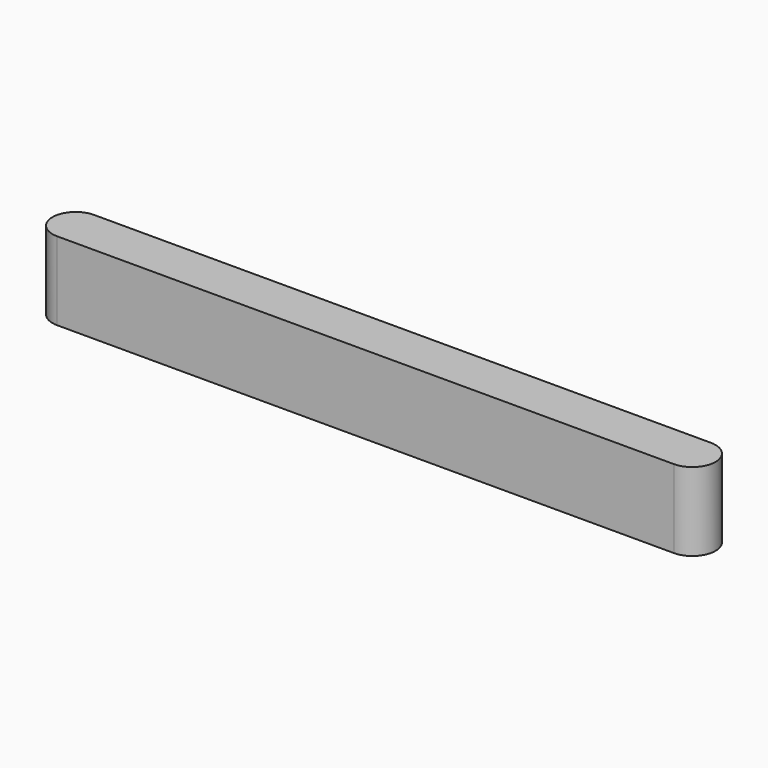
from build123d import *

# Parameters (mm, degrees)
F1_DEPTH = 25.4


with BuildPart() as f1:
    # F0 (on Top) → F1 (new body)
    with BuildSketch(Plane.XY):
        with BuildLine():
            ThreePointArc((100, 7.5), (92.5, 0), (100, -7.5))
            Line((100, -7.5), (100, 7.5))
        make_face()
        with BuildLine():
            Line((-100, -7.5), (100, -7.5))
            ThreePointArc((100, -7.5), (92.5, 0), (100, 7.5))
            Line((100, 7.5), (-100, 7.5))
            ThreePointArc((-100, 7.5), (-94.6966991411, 5.3033008589), (-92.5, 0))
            ThreePointArc((-92.5, 0), (-94.6966991411, -5.3033008589), (-100, -7.5))
        make_face()
        with BuildLine():
            Line((100, 7.5), (100, -7.5))
            ThreePointArc((100, -7.5), (105.3033008589, -5.3033008589), (107.5, 0))
            ThreePointArc((107.5, 0), (105.3033008589, 5.3033008589), (100, 7.5))
        make_face()
        with BuildLine():
            ThreePointArc((-100, 7.5), (-107.5, 0), (-100, -7.5))
            Line((-100, -7.5), (-100, 7.5))
        make_face()
        with BuildLine():
            Line((-100, 7.5), (-100, -7.5))
            ThreePointArc((-100, -7.5), (-94.6966991411, -5.3033008589), (-92.5, 0))
            ThreePointArc((-92.5, 0), (-94.6966991411, 5.3033008589), (-100, 7.5))
        make_face()
    extrude(amount=F1_DEPTH)


solid = f1.part
